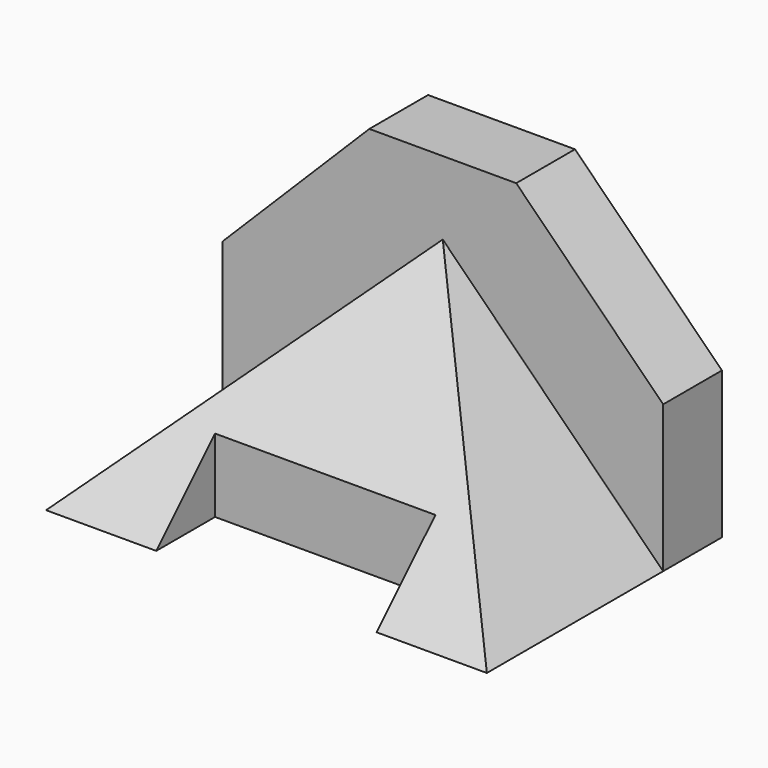
from build123d import *

# Parameters (mm, degrees)
F0_W      = 76.2
F0_H      = 12.7
F1_DEPTH  = 50.8
F3_DEPTH  = 25.4
F4_DEPTH  = 25.4
F5_DEPTH  = 38.1
F7_DEPTH  = 76.201
F9_DEPTH  = 38.1
F10_DEPTH = 38.1


with BuildPart() as f1:
    # F0 (on Top) → F1 (new body)
    with BuildSketch(Plane.XY):
        with Locations((38.1, 44.45)):
            Rectangle(F0_W, F0_H)
    extrude(amount=F1_DEPTH)

    # F2 (on face) → F3 (cut)
    with BuildSketch(Plane(origin=(0, 50.8, 0), x_dir=(-1, 0, 0), z_dir=(0, 1, 0))):
        Polygon((0, 50.8), (-25.4, 50.8), (0, 25.4), align=None)
    extrude(amount=-F3_DEPTH, mode=Mode.SUBTRACT)

    # F2 (on face) → F4 (cut)
    with BuildSketch(Plane(origin=(0, 50.8, 0), x_dir=(-1, 0, 0), z_dir=(0, 1, 0))):
        Polygon((-50.8, 50.8), (-76.2, 50.8), (-76.2, 25.4), align=None)
    extrude(amount=-F4_DEPTH, mode=Mode.SUBTRACT)

    # F0 (on Top) → F5 (join)
    with BuildSketch(Plane.XY):
        Polygon((0, 38.1), (0, 0), (19.05, 0), (19.05, 12.7), (57.15, 12.7), (57.15, 0), (76.2, 0), (76.2, 38.1), align=None)
    extrude(amount=F5_DEPTH)

    # F6 (on face) → F7 (cut, through all)
    with BuildSketch(Plane.YZ.offset(76.2)):
        Polygon((0, 0), (38.1, 38.1), (0, 38.1), align=None)
    extrude(amount=-F7_DEPTH, mode=Mode.SUBTRACT)

    # F8 (on Front) → F9 (cut)
    with BuildSketch(Plane.XZ):
        Polygon((38.1, 38.1), (76.2, 0), (76.2, 38.1), align=None)
    extrude(amount=-F9_DEPTH, mode=Mode.SUBTRACT)

    # F8 (on Front) → F10 (cut)
    with BuildSketch(Plane.XZ):
        Polygon((0, 38.1), (0, 0), (38.1, 38.1), align=None)
    extrude(amount=-F10_DEPTH, mode=Mode.SUBTRACT)


solid = f1.part
